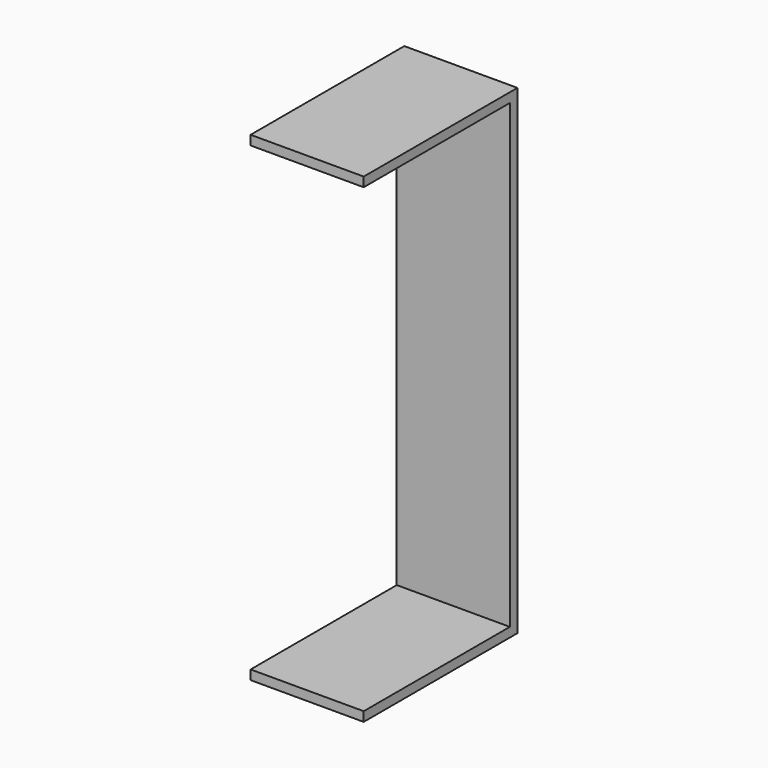
from build123d import *

# Parameters (mm, degrees)
F0_W     = 15.24
F0_H     = 64.68872
F1_DEPTH = 1.27
F2_W     = 15.24
F2_H     = 24.6126
F3_DEPTH = 1.27
F4_W     = 15.24
F4_H     = 24.6126
F5_DEPTH = 1.27


with BuildPart() as f1:
    # F0 (on Front) → F1 (new body)
    with BuildSketch(Plane.XZ):
        with Locations((-0.545189, -1.028404)):
            Rectangle(F0_W, F0_H)
    extrude(amount=F1_DEPTH)

    # F2 (on face) → F3 (join)
    with BuildSketch(Plane.XY.offset(31.315956)):
        with Locations((-0.545189, -13.5763)):
            Rectangle(F2_W, F2_H)
    extrude(amount=-F3_DEPTH)

    # F4 (on face) → F5 (join)
    with BuildSketch(Plane(origin=(0, 0, -33.372764), x_dir=(1, 0, 0), z_dir=(0, 0, -1))):
        with Locations((-0.545189, 13.5763)):
            Rectangle(F4_W, F4_H)
    extrude(amount=-F5_DEPTH)


solid = f1.part
